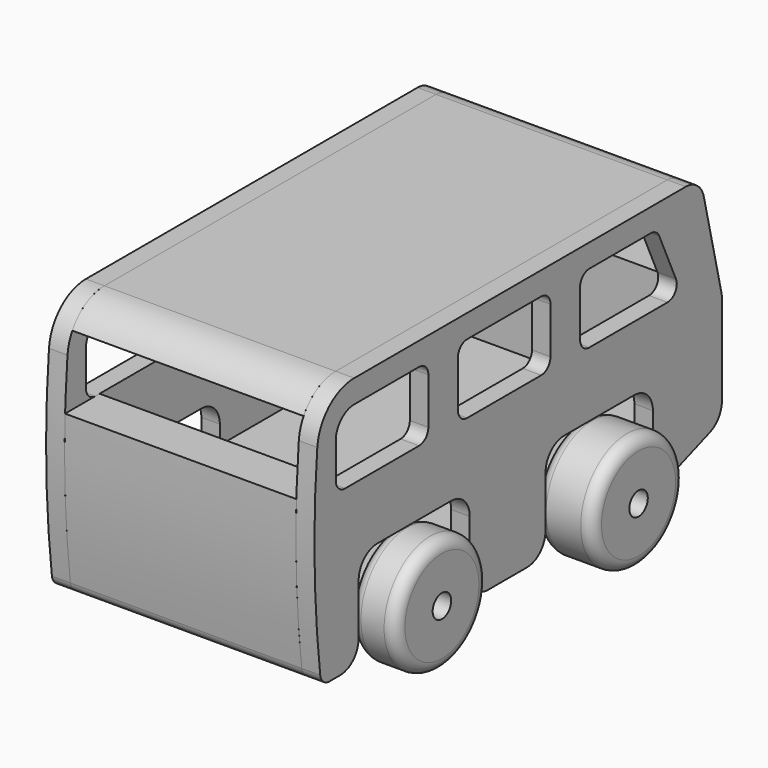
from build123d import *

# Parameters (mm, degrees)
F0_W          = 100
F0_H          = 180
F1_DEPTH      = 10
F1_DEPTH_BACK = 10
F2_R          = 5
F3_DEPTH      = 100.001
F4_R          = 25
F4_R_2        = 5
F5_DEPTH      = 20
F6_R          = 5
F7_R          = 25
F7_R_2        = 5
F8_DEPTH      = 25
F9_R          = 5
F11_DEPTH     = 8
F13_DEPTH     = 108.001
F16_DEPTH     = 100
F18_DEPTH     = 100
F20_DEPTH     = 100


with BuildPart() as f1:
    # F0 (on Top) → F1 (new body, two sides)
    with BuildSketch(Plane.XY) as f1_sk:
        Rectangle(F0_W, F0_H)
    extrude(amount=F1_DEPTH)
    extrude(f1_sk.sketch, amount=-F1_DEPTH_BACK)

    # F2 (on face) → F3 (cut, through all)
    with BuildSketch(Plane.YZ.offset(50)):
        with Locations((-55, 0)):
            Circle(F2_R)
        with Locations((45, 0)):
            Circle(F2_R)
    extrude(amount=-F3_DEPTH, mode=Mode.SUBTRACT)


with BuildPart() as f5:
    # F4 (on face) → F5 (new body)
    with BuildSketch(Plane.YZ.offset(50)):
        with Locations((-55, 0)):
            Circle(F4_R)
        with Locations((-55, 0)):
            Circle(F4_R_2, mode=Mode.SUBTRACT)
    extrude(amount=F5_DEPTH)

    # F6
    f6_edges = [f5.edges().sort_by_distance(p)[0] for p in [
        (60, -30, 0),
        (50, -80, 0),
        (70, -80, 0),
    ]]
    fillet(f6_edges, radius=F6_R)


with BuildPart() as f8:
    # F7 (on face) → F8 (new body)
    with BuildSketch(Plane.YZ.offset(50)):
        with Locations((45, 0)):
            Circle(F7_R)
        with Locations((45, 0)):
            Circle(F7_R_2, mode=Mode.SUBTRACT)
    extrude(amount=F8_DEPTH)

    # F9
    f9_edges = [f8.edges().sort_by_distance(p)[0] for p in [
        (62.5, 70, 0),
        (50, 20, 0),
        (75, 20, 0),
    ]]
    fillet(f9_edges, radius=F9_R)


with BuildPart() as f11:
    # F10 (on face) → F11 (new body)
    with BuildSketch(Plane.YZ.offset(50)):
        with BuildLine():
            Line((91.7928546101, 96), (-87.4165392055, 96))
            ThreePointArc((-87.4165392055, 96), (-100.9340925368, 90.7402765216), (-107.3417866055, 77.7275751934))
            ThreePointArc((-107.3417866055, 77.7275751934), (-108.8371931705, 34.0165341883), (-105.7615714027, -9.6118040482))
            ThreePointArc((-105.7615714027, -9.6118040482), (-104.111315969, -12.7455987666), (-100.7991429844, -14))
            Line((-100.7991429844, -14), (-95, -14))
            ThreePointArc((-95, -14), (-87.9289321881, -11.0710678119), (-85, -4))
            Line((-85, -4), (-85, 18))
            ThreePointArc((-85, 18), (-82.0710678119, 25.0710678119), (-75, 28))
            Line((-75, 28), (-35, 28))
            ThreePointArc((-35, 28), (-27.9289321881, 25.0710678119), (-25, 18))
            Line((-25, 18), (-25, -4))
            ThreePointArc((-25, -4), (-22.0710678119, -11.0710678119), (-15, -14))
            Line((-15, -14), (6, -14))
            ThreePointArc((6, -14), (13.0710678119, -11.0710678119), (16, -4))
            Line((16, -4), (16, 18))
            ThreePointArc((16, 18), (18.9289321881, 25.0710678119), (26, 28))
            Line((26, 28), (64, 28))
            ThreePointArc((64, 28), (71.0710678119, 25.0710678119), (74, 18))
            Line((74, 18), (74, 0.2814800674))
            ThreePointArc((74, 0.2814800674), (78.2642356365, -7.9100403755), (87.4202014333, -9.1154461404))
            Line((87.4202014333, -9.1154461404), (104.7284482842, -2.8157594794))
            ThreePointArc((104.7284482842, -2.8157594794), (109.4997672939, 0.845402365), (111.308246851, 6.5811667285))
            Line((111.308246851, 6.5811667285), (111.308246851, 45.6336960196))
            ThreePointArc((111.308246851, 45.6336960196), (111.2413313184, 46.7886128835), (111.0414802585, 47.9280733719))
            Line((111.0414802585, 47.9280733719), (101.5260880176, 88.2943773522))
            ThreePointArc((101.5260880176, 88.2943773522), (97.999956449, 93.8404009311), (91.7928546101, 96))
        make_face()
    extrude(amount=F11_DEPTH)

    # F12 (on face) → F13 (cut, through all)
    with BuildSketch(Plane.YZ.offset(58)):
        with BuildLine():
            Line((-52.343235347, 86), (-87.4165392055, 86))
            ThreePointArc((-87.4165392055, 86), (-94.0465483452, 83.4861858652), (-97.343235347, 77.2085957615))
            Line((-97.343235347, 77.2085957615), (-97.343235347, 61))
            ThreePointArc((-97.343235347, 61), (-95.8787692529, 57.4644660941), (-92.343235347, 56))
            Line((-92.343235347, 56), (-52.343235347, 56))
            ThreePointArc((-52.343235347, 56), (-48.807701441, 57.4644660941), (-47.343235347, 61))
            Line((-47.343235347, 61), (-47.343235347, 81))
            ThreePointArc((-47.343235347, 81), (-48.807701441, 84.5355339059), (-52.343235347, 86))
        make_face()
        with BuildLine():
            ThreePointArc((-26.343235347, 86), (-29.8787692529, 84.5355339059), (-31.343235347, 81))
            Line((-31.343235347, 81), (-31.343235347, 61))
            ThreePointArc((-31.343235347, 61), (-29.8787692529, 57.4644660941), (-26.343235347, 56))
            Line((-26.343235347, 56), (13.656764653, 56))
            ThreePointArc((13.656764653, 56), (17.192298559, 57.4644660941), (18.656764653, 61))
            Line((18.656764653, 61), (18.656764653, 81))
            ThreePointArc((18.656764653, 81), (17.192298559, 84.5355339059), (13.656764653, 86))
            Line((13.656764653, 86), (-26.343235347, 86))
        make_face()
        with BuildLine():
            Line((86.4647350813, 63.0578633006), (77.4328485492, 83.0578633006))
            ThreePointArc((77.4328485492, 83.0578633006), (75.5880371282, 85.2005545172), (72.875963798, 86))
            Line((72.875963798, 86), (39.656764653, 86))
            ThreePointArc((39.656764653, 86), (36.1212307471, 84.5355339059), (34.656764653, 81))
            Line((34.656764653, 81), (34.656764653, 61))
            ThreePointArc((34.656764653, 61), (36.1212307471, 57.4644660941), (39.656764653, 56))
            Line((39.656764653, 56), (81.9078503301, 56))
            ThreePointArc((81.9078503301, 56), (86.1084048473, 58.2879266698), (86.4647350813, 63.0578633006))
        make_face()
    extrude(amount=-F13_DEPTH, mode=Mode.SUBTRACT)


with BuildPart() as f14_1:
    # F14: instance of F11
    add(f11.part.mirror(Plane.YZ))


with BuildPart() as f16:
    # F15 (on face) → F16 (new body, through all)
    with BuildSketch(Plane(origin=(50, 0, 0), x_dir=(0, -1, 0), z_dir=(-1, 0, 0))):
        with BuildLine():
            ThreePointArc((-91.7928546101, 96), (-98.863922422, 93.0710678119), (-101.7928546101, 86))
            Line((-101.7928546101, 86), (104.7370472812, 86))
            ThreePointArc((104.7370472812, 86), (97.4165392055, 93.3205080757), (87.4165392055, 96))
            Line((87.4165392055, 96), (-91.7928546101, 96))
        make_face()
    extrude(amount=F16_DEPTH)


with BuildPart() as f18:
    # F17 (on face) → F18 (new body, through all)
    with BuildSketch(Plane(origin=(50, 0, 0), x_dir=(0, -1, 0), z_dir=(-1, 0, 0))):
        with BuildLine():
            ThreePointArc((-111.308246851, 6.5811667285), (-109.4997672939, 0.845402365), (-104.7284482842, -2.8157594794))
            Line((-104.7284482842, -2.8157594794), (-91.308246851, -7.7003133389))
            Line((-91.308246851, -7.7003133389), (-91.308246851, 60))
            Line((-91.308246851, 60), (-108.1958118261, 60))
            Line((-108.1958118261, 60), (-111.0414802585, 47.9280733719))
            ThreePointArc((-111.0414802585, 47.9280733719), (-111.2413313184, 46.7886128835), (-111.308246851, 45.6336960196))
            Line((-111.308246851, 45.6336960196), (-111.308246851, 6.5811667285))
        make_face()
    extrude(amount=F18_DEPTH)


with BuildPart() as f20:
    # F19 (on face) → F20 (new body, through all)
    with BuildSketch(Plane(origin=(50, 0, 0), x_dir=(0, -1, 0), z_dir=(-1, 0, 0))):
        with BuildLine():
            ThreePointArc((105.7615714027, -9.6118040482), (108.4987560708, 23.1371947625), (108.6572960691, 56))
            Line((108.6572960691, 56), (90, 56))
            Line((90, 56), (90, -12.6602540378))
            ThreePointArc((90, -12.6602540378), (92.411809549, -13.6592582629), (95, -14))
            Line((95, -14), (100.7991429844, -14))
            ThreePointArc((100.7991429844, -14), (104.111315969, -12.7455987666), (105.7615714027, -9.6118040482))
        make_face()
    extrude(amount=F20_DEPTH)


solid = Compound([f1.part, f5.part, f8.part, f11.part, f14_1.part, f16.part, f18.part, f20.part])
